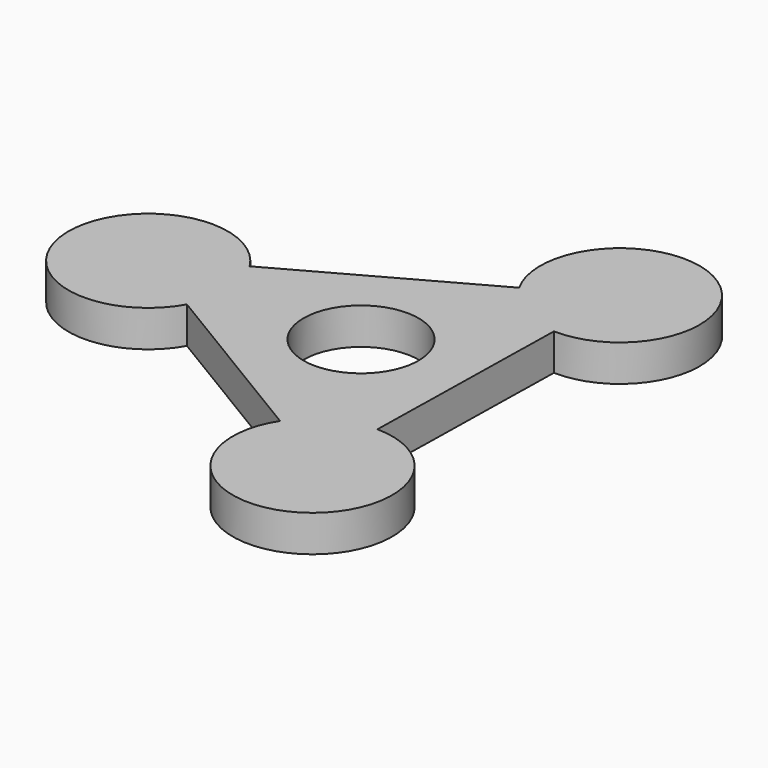
from build123d import *

# Parameters (mm, degrees)
F1_DEPTH = 7.0104
F2_D     = 22.06
F3_R     = 15.305
F4_DEPTH = 7.0104


with BuildPart() as f1:
    # F0 (on Top) → F1 (new body)
    with BuildSketch(Plane.XY):
        Polygon((21.226586, 35.185908), (-41.085183, 0.789809), (19.858597, -35.975717), align=None)
    extrude(amount=F1_DEPTH)

    # F2 (through all)
    with Locations(Plane(origin=(0, 0, 0), x_dir=(1, 0, 0), z_dir=(0, 0, -1))):
        with Locations((0, 0)):
            Hole(F2_D / 2)

    # F3 (on Top) → F4 (join)
    with BuildSketch(Plane.XY):
        with Locations((21.35277, 35.396876)):
            Circle(F3_R)
        with Locations((-40.842548, 0)):
            Circle(F3_R)
        with Locations((19.9197, -36.543333)):
            Circle(F3_R)
    extrude(amount=F4_DEPTH)


solid = f1.part
